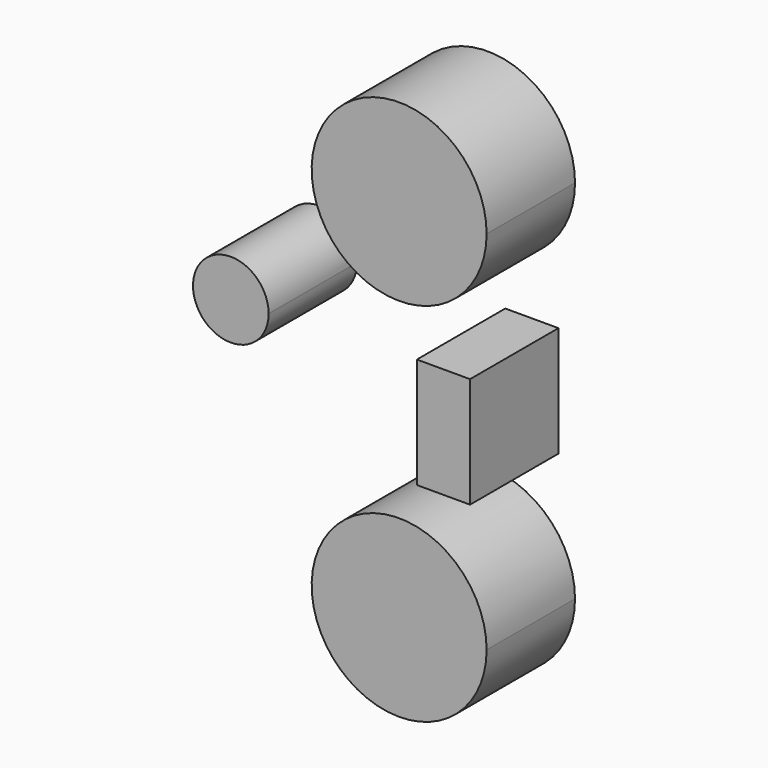
from build123d import *

# Parameters (mm, degrees)
F0_W     = 12.22025
F0_H     = 25.4
F1_DEPTH = 25.4


with BuildPart() as f1:
    # F0 (on Front) → F1 (new body)
    with BuildSketch(Plane.XZ):
        with BuildLine():
            ThreePointArc((-16.065034, 68.128295), (-6.3748, 36.966536), (20.10718, 56.036424))
            ThreePointArc((20.10718, 56.036424), (6.3748, 75.106311), (-16.065034, 68.128295))
        make_face()
        with BuildLine():
            ThreePointArc((-17.976178, -37.145073), (4.628631, -47.703604), (20.10718, -28.136426))
            ThreePointArc((20.10718, -28.136426), (-4.628631, -8.569248), (-17.976178, -37.145073))
        make_face()
        with BuildLine():
            ThreePointArc((-30.002212, 23.604526), (-35.93973, 31.849841), (-45.64212, 28.832732))
            ThreePointArc((-45.64212, 28.832732), (-47.354395, 24.388744), (-46.468448, 19.709426))
            ThreePointArc((-46.468448, 19.709426), (-36.694727, 15.144196), (-30.002212, 23.604526))
        make_face()
        with Locations((10.187055, 12.7)):
            Rectangle(F0_W, F0_H)
    extrude(amount=F1_DEPTH)


solid = f1.part
